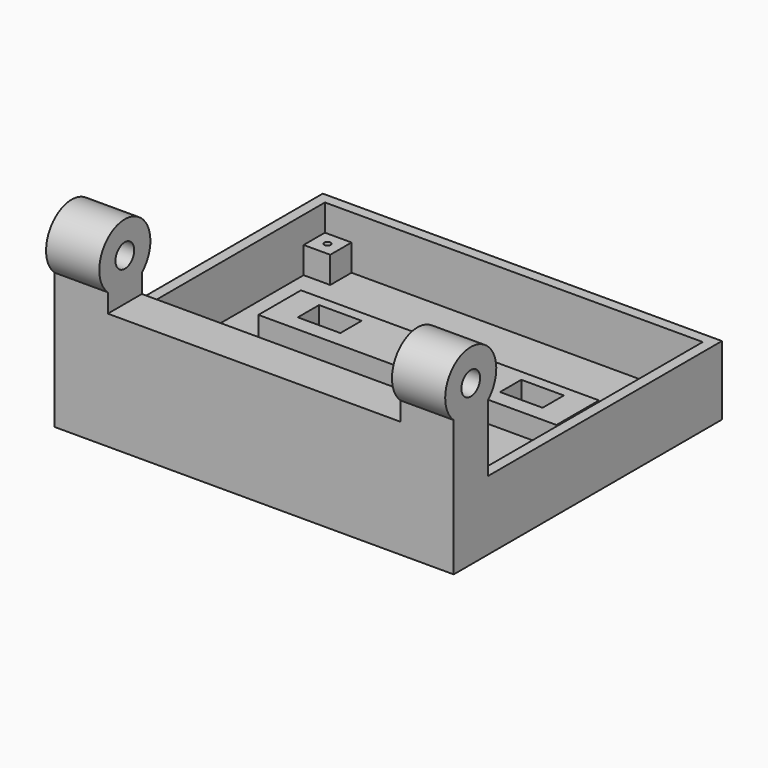
from build123d import *

# Parameters (mm, degrees)
SKETCH_W        = 75
SKETCH_H        = 55
PAD_DEPTH       = 3
SKETCH001_W     = 75
SKETCH001_H     = 55
SKETCH001_W_2   = 71
SKETCH001_H_2   = 51
PAD001_DEPTH    = 10
SKETCH002_W     = 5
SKETCH002_H     = 5
PAD002_DEPTH    = 5
SKETCH011_R     = 0.6
POCKET004_DEPTH = 5
SKETCH012_W     = 56
SKETCH012_H     = 10
PAD003_DEPTH    = 4
SKETCH013_W     = 8
SKETCH013_H     = 5
POCKET_DEPTH    = 8
SKETCH014_W     = 75
SKETCH014_H     = 8
PAD004_DEPTH    = 30
SKETCH015_R     = 6
PAD005_DEPTH    = 10
SKETCH016_R     = 6
PAD006_DEPTH    = 10
SKETCH017_R     = 2.2
POCKET005_DEPTH = 75
SKETCH018_W     = 55
SKETCH018_H     = 8
POCKET006_DEPTH = 8


with BuildPart() as part:
    # Sketch → Pad (new body)
    with BuildSketch(Plane.XY):
        with Locations((0, 27.5)):
            Rectangle(SKETCH_W, SKETCH_H)
    extrude(amount=PAD_DEPTH)

    # Sketch001 (on Face6 of Pad) → Pad001 (join)
    with BuildSketch(Plane.XY.offset(3)):
        with Locations((0, 27.5)):
            Rectangle(SKETCH001_W, SKETCH001_H)
        with Locations((0, 27.5)):
            Rectangle(SKETCH001_W_2, SKETCH001_H_2, mode=Mode.SUBTRACT)
    extrude(amount=PAD001_DEPTH)

    # Sketch002 (on Face15 of Pad001) → Pad002 (join)
    with BuildSketch(Plane.XY.offset(3)):
        with Locations((-33, 50.5)):
            Rectangle(SKETCH002_W, SKETCH002_H)
        with Locations((33, 50.5)):
            Rectangle(SKETCH002_W, SKETCH002_H)
        with Locations((33, 4.5)):
            Rectangle(SKETCH002_W, SKETCH002_H)
        with Locations((-33, 4.5)):
            Rectangle(SKETCH002_W, SKETCH002_H)
    extrude(amount=PAD002_DEPTH)

    # Sketch011 → Pocket004 (cut)
    with BuildSketch(Plane.XY.offset(8)):
        with Locations((-33, 4.5)):
            Circle(SKETCH011_R)
        with Locations((33, 4.5)):
            Circle(SKETCH011_R)
        with Locations((-33, 50.5)):
            Circle(SKETCH011_R)
        with Locations((33, 50.5)):
            Circle(SKETCH011_R)
    extrude(amount=-POCKET004_DEPTH, mode=Mode.SUBTRACT)

    # Sketch012 (on Face17 of Pocket004) → Pad003 (join)
    with BuildSketch(Plane.XY.offset(3)):
        with Locations((0, 33)):
            Rectangle(SKETCH012_W, SKETCH012_H)
    extrude(amount=PAD003_DEPTH)

    # Sketch013 (on Face37 of Pad003) → Pocket (cut)
    with BuildSketch(Plane.XY.offset(7)):
        with Locations((-19, 33.5)):
            Rectangle(SKETCH013_W, SKETCH013_H)
        with Locations((19, 33.5)):
            Rectangle(SKETCH013_W, SKETCH013_H)
    extrude(amount=-POCKET_DEPTH, mode=Mode.SUBTRACT)

    # Sketch014 (on Face4 of Pocket) → Pad004 (join)
    with BuildSketch(Plane(origin=(0, 0, 0), x_dir=(1, 0, 0), z_dir=(0, 0, -1))):
        with Locations((0, 4)):
            Rectangle(SKETCH014_W, SKETCH014_H)
    extrude(amount=-PAD004_DEPTH)

    # Sketch015 (on Face6 of Pad004) → Pad005 (join)
    with BuildSketch(Plane(origin=(-37.5, 0, 0), x_dir=(0, -1, 0), z_dir=(-1, 0, 0))):
        with Locations((4, 30)):
            Circle(SKETCH015_R)
    extrude(amount=-PAD005_DEPTH)

    # Sketch016 (on Face8 of Pad005) → Pad006 (join)
    with BuildSketch(Plane.YZ.offset(37.5)):
        with Locations((-4, 30)):
            Circle(SKETCH016_R)
    extrude(amount=-PAD006_DEPTH)

    # Sketch017 (on Face37 of Pad006) → Pocket005 (cut)
    with BuildSketch(Plane.YZ.offset(37.5)):
        with Locations((-4, 30)):
            Circle(SKETCH017_R)
    extrude(amount=-POCKET005_DEPTH, mode=Mode.SUBTRACT)

    # Sketch018 (on Face37 of Pocket005) → Pocket006 (cut)
    with BuildSketch(Plane.XY.offset(30)):
        with Locations((0, -4)):
            Rectangle(SKETCH018_W, SKETCH018_H)
    extrude(amount=-POCKET006_DEPTH, mode=Mode.SUBTRACT)


solid = part.part
